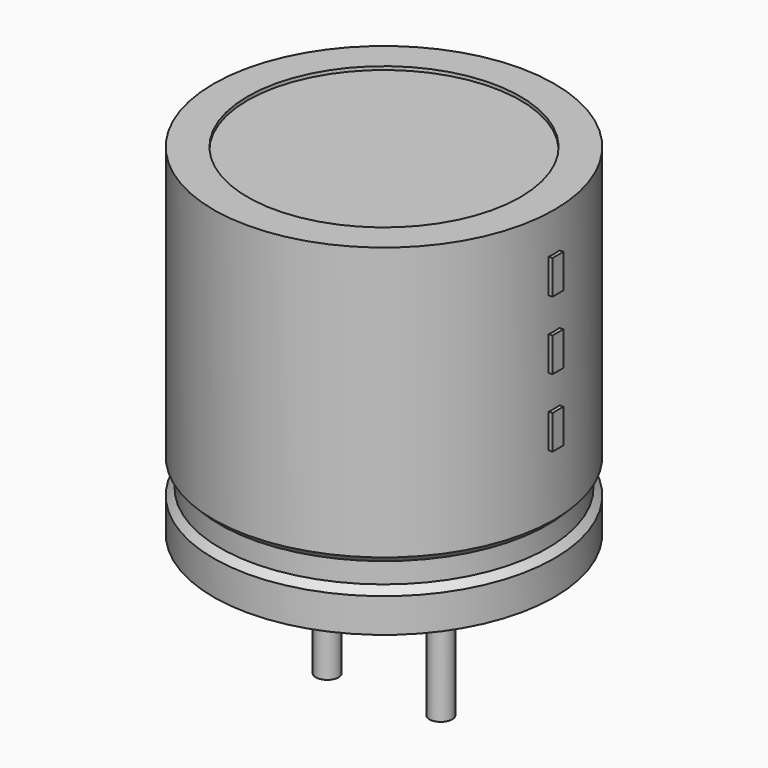
from build123d import *

# Parameters (mm, degrees)
SKETCH002_W  = 3.45
SKETCH002_H  = 7.35
SKETCH003_R  = 0.25
PAD_DEPTH    = 3.75
SKETCH004_W  = 0.3
SKETCH004_H  = 0.75
PAD001_DEPTH = 3.825


with BuildPart() as revolution:
    # Sketch → Revolution (revolve)
    with BuildSketch(Plane.XZ):
        Polygon((-2.5, 0.1), (-2.5, 0.85), (-2.35, 1), (-2.35, 1.45), (-2.5, 1.6), (-2.5, 7.6), (-1.75, 7.6), (-1.75, 0.1), align=None)
    revolve(axis=Axis((1.25, 0, 7.548619), (0, 0, -1)))


with BuildPart() as revolution001:
    # Sketch002 → Revolution001 (revolve)
    with BuildSketch(Plane.XZ):
        with Locations((-0.475, 3.85)):
            Rectangle(SKETCH002_W, SKETCH002_H)
    revolve(axis=Axis((1.25, 0, 4.680116), (0, 0, -1)))


with BuildPart() as pad:
    # Sketch003 → Pad (new body)
    with BuildSketch(Plane.XY.offset(0.75)):
        Circle(SKETCH003_R)
        with Locations((2.5, 0)):
            Circle(SKETCH003_R)
    extrude(amount=-PAD_DEPTH)


with BuildPart() as pad001:
    # Sketch004 → Pad001 (new body)
    with BuildSketch(Plane.YZ.offset(1.25)):
        with Locations((0, 3.375)):
            Rectangle(SKETCH004_W, SKETCH004_H)
        with Locations((0, 4.875)):
            Rectangle(SKETCH004_W, SKETCH004_H)
        with Locations((0, 6.375)):
            Rectangle(SKETCH004_W, SKETCH004_H)
    extrude(amount=PAD001_DEPTH)


solid = Compound([revolution.part, revolution001.part, pad.part, pad001.part])
